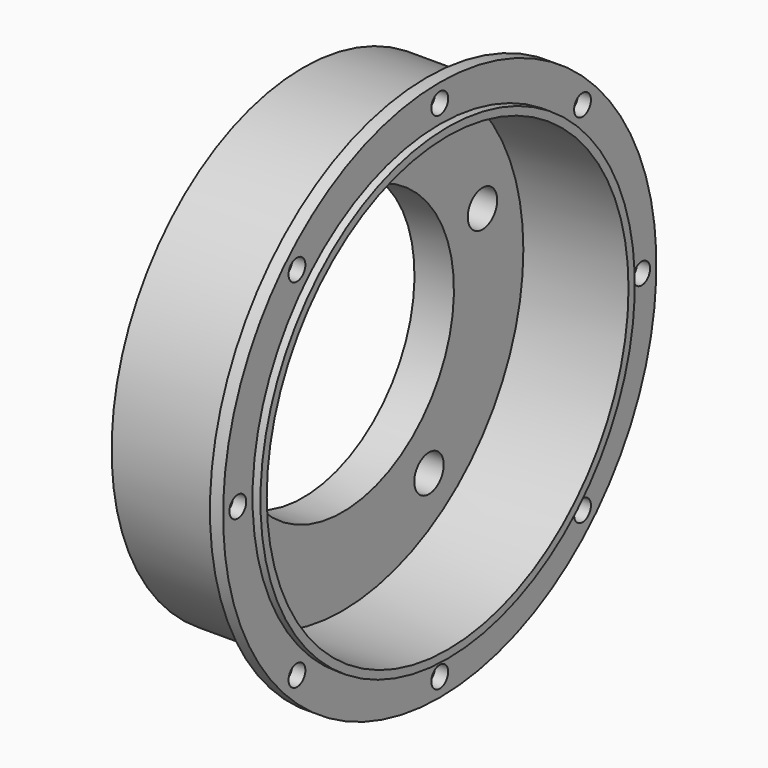
from build123d import *

# Parameters (mm, degrees)
F3_R     = 7
F4_DEPTH = 15
F5_R     = 4
F6_DEPTH = 5


with BuildPart() as f2:
    # F0 (on Front) → F2 (revolve)
    with BuildSketch(Plane.XZ):
        Polygon((0, 91), (0, 53), (15, 53), (15, 86), (52, 86), (55, 86), (55, 89), (52, 89), (52, 103), (47, 103), (47, 91), align=None)
    revolve(axis=Axis((3.968336, 0, 0), (1, 0, 0)))

    # F3 (on face) → F4 (cut)
    with BuildSketch(Plane(origin=(0, 0, 0), x_dir=(0, -1, 0), z_dir=(-1, 0, 0))):
        with Locations((0, 70)):
            Circle(F3_R)
        with Locations((-66.573956, 21.63119)):
            Circle(F3_R)
        with Locations((-41.144968, -56.63119)):
            Circle(F3_R)
        with Locations((41.144968, -56.63119)):
            Circle(F3_R)
        with Locations((66.573956, 21.63119)):
            Circle(F3_R)
    extrude(amount=-F4_DEPTH, mode=Mode.SUBTRACT)

    # F5 (on face) → F6 (cut)
    with BuildSketch(Plane(origin=(47, 0, 0), x_dir=(0, -1, 0), z_dir=(-1, 0, 0))):
        with Locations((0, 96)):
            Circle(F5_R)
        with Locations((-67.882251, 67.882251)):
            Circle(F5_R)
        with Locations((-96, 0)):
            Circle(F5_R)
        with Locations((-67.882251, -67.882251)):
            Circle(F5_R)
        with Locations((0, -96)):
            Circle(F5_R)
        with Locations((67.882251, -67.882251)):
            Circle(F5_R)
        with Locations((96, 0)):
            Circle(F5_R)
        with Locations((67.882251, 67.882251)):
            Circle(F5_R)
    extrude(amount=-F6_DEPTH, mode=Mode.SUBTRACT)


solid = f2.part
